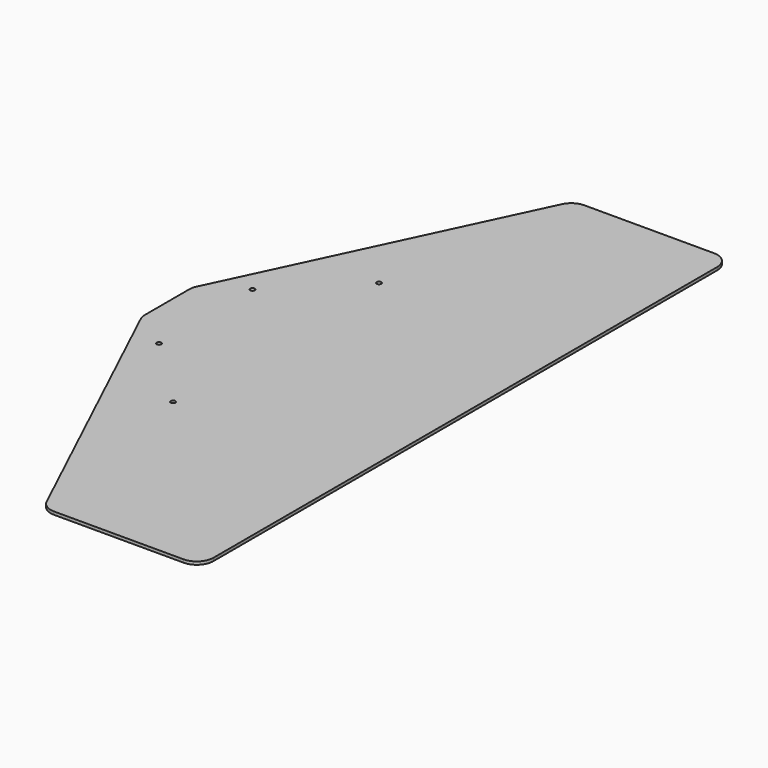
from build123d import *

# Parameters (mm, degrees)
PAD_DEPTH    = 9
SKETCH001_R  = 7
POCKET_DEPTH = 9
FILLET_R     = 50


with BuildPart() as part:
    # Sketch → Pad (new body)
    with BuildSketch(Plane.XY):
        Polygon((0, 94.860678), (0, 0), (0, -94.860678), (427.593604, -1000), (900, -1000), (900, 1000), (427.593604, 1000), align=None)
    extrude(amount=PAD_DEPTH)

    # Sketch001 (on DatumPlane) → Pocket (cut)
    with BuildSketch(Plane.XY.offset(9)):
        with Locations((328.804653, -388.309992)):
            Circle(SKETCH001_R)
        with Locations((116.672619, -176.177958)):
            Circle(SKETCH001_R)
    pocket = extrude(amount=-POCKET_DEPTH, mode=Mode.SUBTRACT)

    # Mirrored: Pocket across Sketch001 H_Axis
    add(pocket.mirror(Plane(origin=(0, 0, 9), x_dir=(0, 0, 1), z_dir=(0, 1, 0))), mode=Mode.SUBTRACT)

    # Fillet
    fillet_edges = [part.edges().sort_by_distance(p)[0] for p in [
        (0, 94.860678, 4.5),
        (0, -94.860678, 4.5),
        (427.593604, -1000, 4.5),
        (900, -1000, 4.5),
        (900, 1000, 4.5),
        (427.593604, 1000, 4.5),
    ]]
    fillet(fillet_edges, radius=FILLET_R)


with BuildPart() as part_1:
    # Fillet001Body placement: moved
    add(part.part.moved(Location((0, 0, 8))))


solid = part_1.part
